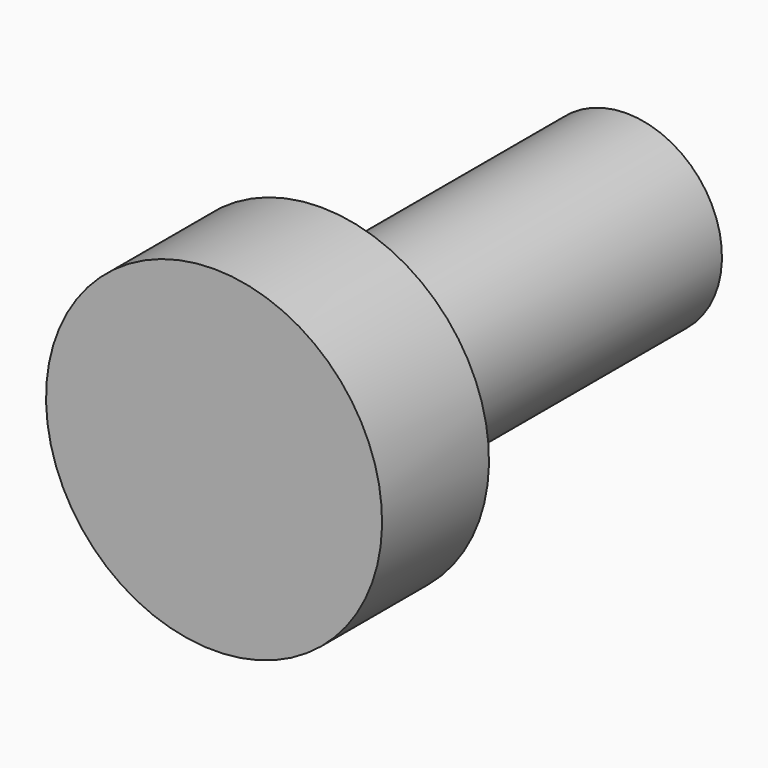
from build123d import *


with BuildPart() as part:
    # Sketch → Revolution (revolve)
    with BuildSketch(Plane.YZ):
        Polygon((-3.5, 0), (-3.5, 4.4), (0, 4.4), (0, 2.5), (10, 2.5), (10, 0), align=None)
    revolve(axis=Axis((0, 0, 0), (0, 1, 0)))


solid = part.part
